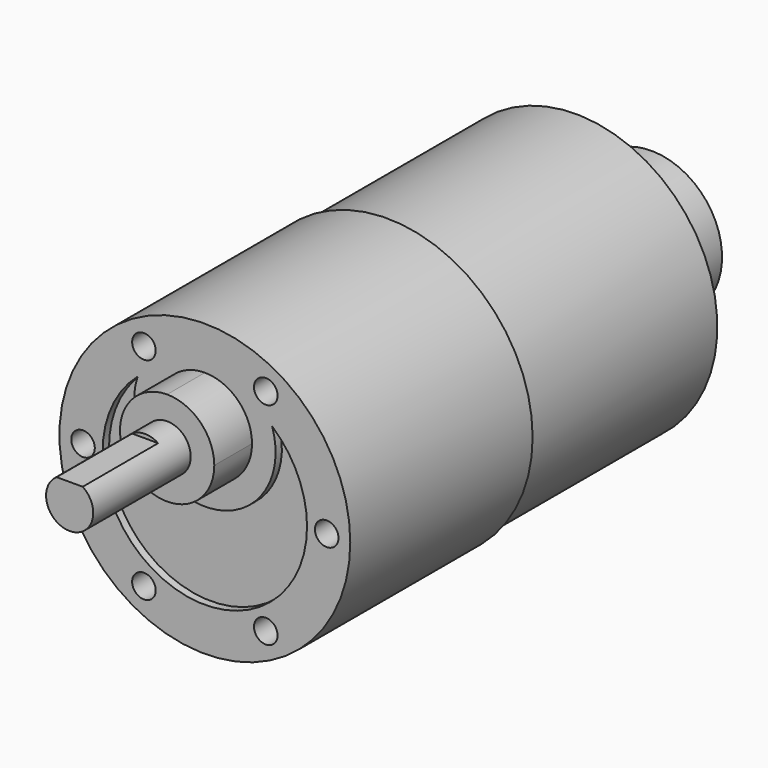
from build123d import *

# Parameters (mm, degrees)
F0_R      = 18.5
F0_R_2    = 18
F0_R_3    = 1.5
F0_R_4    = 3
F1_DEPTH  = 29
F2_R      = 18
F3_DEPTH  = 30
F4_R      = 9
F5_DEPTH  = 12
F6_DEPTH  = 6
F7_DEPTH  = 21.5
F8_DEPTH  = 10
F10_DEPTH = 12
F11_DEPTH = 1


with BuildPart() as f1:
    # F0 (on Front) → F1 (new body)
    with BuildSketch(Plane.XZ):
        Circle(F0_R)
        Circle(F0_R_2, mode=Mode.SUBTRACT)
        Circle(F0_R_2)
        with Locations((-7.75, -13.4233937587)):
            Circle(F0_R_3, mode=Mode.SUBTRACT)
        with Locations((7.75, -13.4233937587)):
            Circle(F0_R_3, mode=Mode.SUBTRACT)
        with Locations((-15.5, 0)):
            Circle(F0_R_3, mode=Mode.SUBTRACT)
        with Locations((-7.75, 13.4233937587)):
            Circle(F0_R_3, mode=Mode.SUBTRACT)
        with BuildLine():
            ThreePointArc((-8.5580252347, 9.7857142857), (-4.5708705218, 12.1699278007), (-4.3e-08, 13))
            ThreePointArc((-4.3e-08, 13), (4.5708704815, 12.1699278158), (8.5580252347, 9.7857142857))
            ThreePointArc((8.5580252347, 9.7857142857), (11.8375320074, 5.3733449521), (13, 0))
            ThreePointArc((13, 0), (-5.3733449521, -11.8375320074), (-8.5580252347, 9.7857142857))
        make_face(mode=Mode.SUBTRACT)
        with Locations((15.5, 0)):
            Circle(F0_R_3, mode=Mode.SUBTRACT)
        with Locations((7.75, 13.4233937587)):
            Circle(F0_R_3, mode=Mode.SUBTRACT)
        with BuildLine():
            ThreePointArc((13, 0), (11.8375320074, 5.3733449521), (8.5580252347, 9.7857142857))
            ThreePointArc((8.5580252347, 9.7857142857), (0, -2), (-8.5580252347, 9.7857142857))
            ThreePointArc((-8.5580252347, 9.7857142857), (-5.3733449521, -11.8375320074), (13, 0))
        make_face()
        with BuildLine():
            ThreePointArc((8.5580252347, 9.7857142857), (4.5708704815, 12.1699278158), (-4.3e-08, 13))
            ThreePointArc((-4.3e-08, 13), (-4.5708705218, 12.1699278007), (-8.5580252347, 9.7857142857))
            ThreePointArc((-8.5580252347, 9.7857142857), (0, -2), (8.5580252347, 9.7857142857))
        make_face()
        with BuildLine():
            ThreePointArc((-4.3e-08, 13), (4.2426406719, 11.2426407023), (6, 7))
            ThreePointArc((6, 7), (-4.2426406719, 2.7573592977), (-4.3e-08, 13))
        make_face(mode=Mode.SUBTRACT)
        with BuildLine():
            ThreePointArc((-4.3e-08, 13), (-4.2426406719, 2.7573592977), (6, 7))
            ThreePointArc((6, 7), (4.2426406719, 11.2426407023), (-4.3e-08, 13))
        make_face()
        with Locations((0, 7)):
            Circle(F0_R_4, mode=Mode.SUBTRACT)
        with Locations((0, 7)):
            Circle(F0_R_4)
        with Locations((-15.5, 0)):
            Circle(F0_R_3)
        with Locations((7.75, -13.4233937587)):
            Circle(F0_R_3)
        with Locations((15.5, 0)):
            Circle(F0_R_3)
        with Locations((7.75, 13.4233937587)):
            Circle(F0_R_3)
        with Locations((-7.75, -13.4233937587)):
            Circle(F0_R_3)
        with Locations((-7.75, 13.4233937587)):
            Circle(F0_R_3)
    extrude(amount=-F1_DEPTH)

    # F2 (on face) → F3 (join)
    with BuildSketch(Plane(origin=(0, 29, 0), x_dir=(-1, 0, 0), z_dir=(0, 1, 0))):
        Circle(F2_R)
    extrude(amount=F3_DEPTH)

    # F4 (on face) → F5 (join)
    with BuildSketch(Plane(origin=(0, 59, 0), x_dir=(-1, 0, 0), z_dir=(0, 1, 0))):
        Circle(F4_R)
    extrude(amount=F5_DEPTH)

    # F0 (on Front) → F6 (join)
    with BuildSketch(Plane.XZ):
        with BuildLine():
            ThreePointArc((-4.3e-08, 13), (-4.2426406719, 2.7573592977), (6, 7))
            ThreePointArc((6, 7), (4.2426406719, 11.2426407023), (-4.3e-08, 13))
        make_face()
        with Locations((0, 7)):
            Circle(F0_R_4, mode=Mode.SUBTRACT)
    extrude(amount=F6_DEPTH)

    # F0 (on Front) → F7 (join)
    with BuildSketch(Plane.XZ):
        with Locations((0, 7)):
            Circle(F0_R_4)
    extrude(amount=F7_DEPTH)

    # F0 (on Front) → F8 (cut)
    with BuildSketch(Plane.XZ):
        with Locations((-7.75, 13.4233937587)):
            Circle(F0_R_3)
        with Locations((7.75, 13.4233937587)):
            Circle(F0_R_3)
        with Locations((15.5, 0)):
            Circle(F0_R_3)
        with Locations((-7.75, -13.4233937587)):
            Circle(F0_R_3)
        with Locations((-15.5, 0)):
            Circle(F0_R_3)
        with Locations((7.75, -13.4233937587)):
            Circle(F0_R_3)
    extrude(amount=-F8_DEPTH, mode=Mode.SUBTRACT)

    # F9 (on face) → F10 (cut)
    with BuildSketch(Plane.XZ.offset(21.5)):
        with BuildLine():
            ThreePointArc((-1.6583123952, 9.5), (0, 10), (1.6583123952, 9.5))
            Line((1.6583123952, 9.5), (6.0122050345, 9.5))
            Line((6.0122050345, 9.5), (6.0122050345, 13.4357631467))
            Line((6.0122050345, 13.4357631467), (-7.3503456078, 13.4357631467))
            Line((-7.3503456078, 13.4357631467), (-7.3503456078, 9.5))
            Line((-7.3503456078, 9.5), (-1.6583123952, 9.5))
        make_face()
        with BuildLine():
            Line((-1.6583123952, 9.5), (1.6583123952, 9.5))
            ThreePointArc((1.6583123952, 9.5), (0, 10), (-1.6583123952, 9.5))
        make_face()
    extrude(amount=-F10_DEPTH, mode=Mode.SUBTRACT)

    # F0 (on Front) → F11 (cut)
    with BuildSketch(Plane.XZ):
        with BuildLine():
            ThreePointArc((13, 0), (11.8375320074, 5.3733449521), (8.5580252347, 9.7857142857))
            ThreePointArc((8.5580252347, 9.7857142857), (0, -2), (-8.5580252347, 9.7857142857))
            ThreePointArc((-8.5580252347, 9.7857142857), (-5.3733449521, -11.8375320074), (13, 0))
        make_face()
    extrude(amount=-F11_DEPTH, mode=Mode.SUBTRACT)


solid = f1.part
